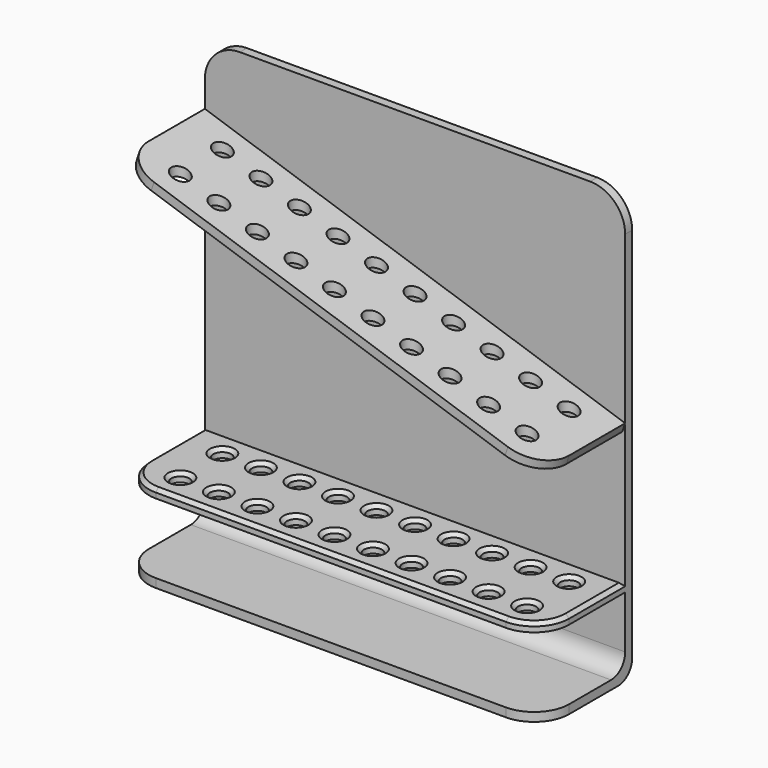
from build123d import *

# Parameters (mm, degrees)
F0_R      = 6.5
F1_DEPTH  = 6.35
F2_SIZE   = 2.54
F4_DEPTH  = 304.8
F5_R      = 12.7
F6_R      = 25.4
F8_DEPTH  = 76.2
F9_R      = 25.4
F10_R     = 6.5
F11_DEPTH = 247.651


with BuildPart() as f1:
    # F0 (on Top) → F1 (new body)
    with BuildSketch(Plane.XY):
        with BuildLine():
            ThreePointArc((0, 25.4), (7.439488, 7.439488), (25.4, 0))
            Line((25.4, 0), (279.4, 0))
            ThreePointArc((279.4, 0), (297.360512, 7.439488), (304.8, 25.4))
            Line((304.8, 25.4), (304.8, 76.2))
            Line((304.8, 76.2), (0, 76.2))
            Line((0, 76.2), (0, 25.4))
        make_face()
        with Locations((27.94, 19.05)):
            Circle(F0_R, mode=Mode.SUBTRACT)
        with Locations((55.88, 19.05)):
            Circle(F0_R, mode=Mode.SUBTRACT)
        with Locations((83.82, 19.05)):
            Circle(F0_R, mode=Mode.SUBTRACT)
        with Locations((111.76, 19.05)):
            Circle(F0_R, mode=Mode.SUBTRACT)
        with Locations((139.7, 19.05)):
            Circle(F0_R, mode=Mode.SUBTRACT)
        with Locations((167.64, 19.05)):
            Circle(F0_R, mode=Mode.SUBTRACT)
        with Locations((195.58, 19.05)):
            Circle(F0_R, mode=Mode.SUBTRACT)
        with Locations((223.52, 19.05)):
            Circle(F0_R, mode=Mode.SUBTRACT)
        with Locations((251.46, 19.05)):
            Circle(F0_R, mode=Mode.SUBTRACT)
        with Locations((279.4, 19.05)):
            Circle(F0_R, mode=Mode.SUBTRACT)
        with Locations((27.94, 57.15)):
            Circle(F0_R, mode=Mode.SUBTRACT)
        with Locations((55.88, 57.15)):
            Circle(F0_R, mode=Mode.SUBTRACT)
        with Locations((83.82, 57.15)):
            Circle(F0_R, mode=Mode.SUBTRACT)
        with Locations((111.76, 57.15)):
            Circle(F0_R, mode=Mode.SUBTRACT)
        with Locations((139.7, 57.15)):
            Circle(F0_R, mode=Mode.SUBTRACT)
        with Locations((167.64, 57.15)):
            Circle(F0_R, mode=Mode.SUBTRACT)
        with Locations((195.58, 57.15)):
            Circle(F0_R, mode=Mode.SUBTRACT)
        with Locations((223.52, 57.15)):
            Circle(F0_R, mode=Mode.SUBTRACT)
        with Locations((251.46, 57.15)):
            Circle(F0_R, mode=Mode.SUBTRACT)
        with Locations((279.4, 57.15)):
            Circle(F0_R, mode=Mode.SUBTRACT)
    extrude(amount=F1_DEPTH)

    # F2
    f2_edges = [f1.edges().sort_by_distance(p)[0] for p in [
        (7.439488, 7.439488, 6.35),
        (152.4, 0, 6.35),
        (297.360512, 7.439488, 6.35),
        (304.8, 50.8, 6.35),
        (152.4, 76.2, 6.35),
        (0, 50.8, 6.35),
        (21.44, 19.05, 6.35),
        (49.38, 19.05, 6.35),
        (77.32, 19.05, 6.35),
        (105.26, 19.05, 6.35),
        (133.2, 19.05, 6.35),
        (161.14, 19.05, 6.35),
        (189.08, 19.05, 6.35),
        (217.02, 19.05, 6.35),
        (244.96, 19.05, 6.35),
        (272.9, 19.05, 6.35),
        (21.44, 57.15, 6.35),
        (49.38, 57.15, 6.35),
        (77.32, 57.15, 6.35),
        (105.26, 57.15, 6.35),
        (133.2, 57.15, 6.35),
        (161.14, 57.15, 6.35),
        (189.08, 57.15, 6.35),
        (217.02, 57.15, 6.35),
        (244.96, 57.15, 6.35),
        (272.9, 57.15, 6.35),
    ]]
    chamfer(f2_edges, length=F2_SIZE)

    # F3 (on Right) → F4 (join)
    with BuildSketch(Plane.YZ):
        Polygon((76.2, 254), (76.2, 0), (76.2, -50.8), (0, -50.8), (0, -57.15), (82.55, -57.15), (82.55, 254), align=None)
    extrude(amount=F4_DEPTH)

    # F5
    f5_edges = [f1.edges().sort_by_distance(p)[0] for p in [
        (152.4, 76.2, -50.8),
        (152.4, 82.55, -57.15),
    ]]
    fillet(f5_edges, radius=F5_R)

    # F6
    f6_edges = [f1.edges().sort_by_distance(p)[0] for p in [
        (304.8, 79.375, 254),
        (0, 79.375, 254),
    ]]
    fillet(f6_edges, radius=F6_R)

    # F7 (on face) → F8 (join)
    with BuildSketch(Plane.XZ.offset(-76.2)):
        Polygon((304.8, 107.95), (0, 209.55), (-2.008047, 203.52586), (302.791953, 101.92586), align=None)
    extrude(amount=F8_DEPTH)

    # F9
    f9_edges = [f1.edges().sort_by_distance(p)[0] for p in [
        (304.8, 0, -53.975),
        (0, 0, -53.975),
        (-1.004023, 0, 206.53793),
        (303.795977, 0, 104.93793),
    ]]
    fillet(f9_edges, radius=F9_R)

    # F10 (on face) → F11 (cut, through all)
    with BuildSketch(Plane.XY.offset(6.35)):
        with Locations((27.94, 57.15)):
            Circle(F10_R)
        with Locations((27.94, 19.05)):
            Circle(F10_R)
        with Locations((55.88, 57.15)):
            Circle(F10_R)
        with Locations((55.88, 19.05)):
            Circle(F10_R)
        with Locations((83.82, 57.15)):
            Circle(F10_R)
        with Locations((111.76, 57.15)):
            Circle(F10_R)
        with Locations((83.82, 19.05)):
            Circle(F10_R)
        with Locations((111.76, 19.05)):
            Circle(F10_R)
        with Locations((139.7, 19.05)):
            Circle(F10_R)
        with Locations((139.7, 57.15)):
            Circle(F10_R)
        with Locations((167.64, 57.15)):
            Circle(F10_R)
        with Locations((167.64, 19.05)):
            Circle(F10_R)
        with Locations((195.58, 19.05)):
            Circle(F10_R)
        with Locations((195.58, 57.15)):
            Circle(F10_R)
        with Locations((223.52, 57.15)):
            Circle(F10_R)
        with Locations((223.52, 19.05)):
            Circle(F10_R)
        with Locations((251.46, 57.15)):
            Circle(F10_R)
        with Locations((251.46, 19.05)):
            Circle(F10_R)
        with Locations((279.4, 57.15)):
            Circle(F10_R)
        with Locations((279.4, 19.05)):
            Circle(F10_R)
    extrude(amount=F11_DEPTH, mode=Mode.SUBTRACT)


solid = f1.part
